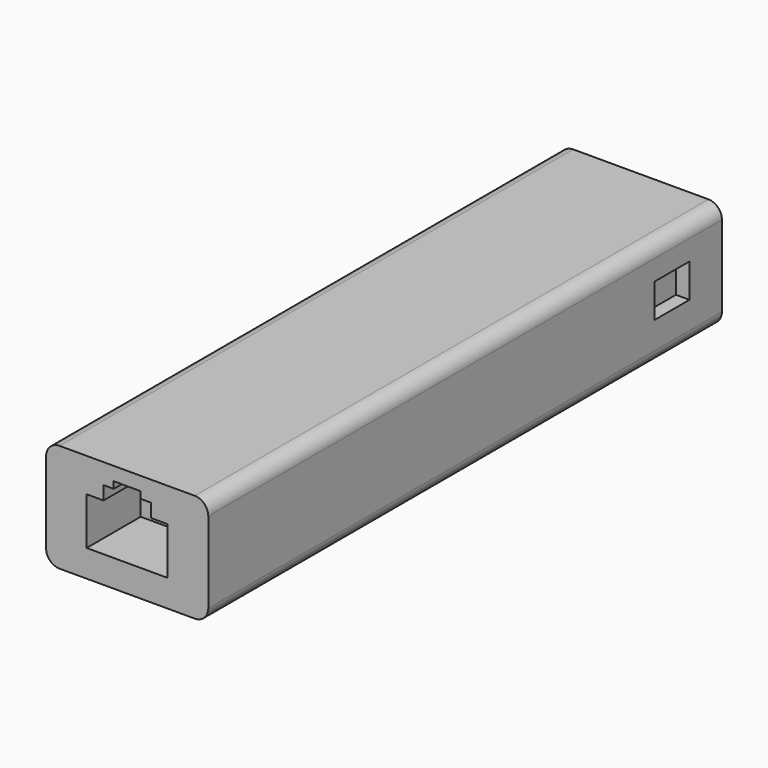
from build123d import *

# Parameters (mm, degrees)
F1_DEPTH = 95
F2_DEPTH = 10
F4_START = 10
F3_W     = 6.5
F3_H     = 5
F4_DEPTH = 2
F5_START = -10
F3_W_2   = 13
F5_DEPTH = 2


with BuildPart() as f1:
    # F0 (on Front) → F1 (new body)
    with BuildSketch(Plane.XZ):
        with BuildLine():
            Line((-10, -8), (10, -8))
            ThreePointArc((10, -8), (11.4142135624, -7.4142135624), (12, -6))
            Line((12, -6), (12, 6))
            ThreePointArc((12, 6), (11.4142135624, 7.4142135624), (10, 8))
            Line((10, 8), (-10, 8))
            ThreePointArc((-10, 8), (-11.4142135624, 7.4142135624), (-12, 6))
            Line((-12, 6), (-12, -6))
            ThreePointArc((-12, -6), (-11.4142135624, -7.4142135624), (-10, -8))
        make_face()
        Polygon((-2, 5), (-2, 6), (2, 6), (2, 5), (3.5, 5), (3.5, 3), (6, 3), (6, -4), (-6, -4), (-6, 3), (-3.5, 3), (-3.5, 5), align=None, mode=Mode.SUBTRACT)
        Polygon((2, 6), (-2, 6), (-2, 5), (-3.5, 5), (-3.5, 3), (-6, 3), (-6, -4), (6, -4), (6, 3), (3.5, 3), (3.5, 5), (2, 5), align=None)
    extrude(amount=-F1_DEPTH)

    # F0 (on Front) → F2 (cut)
    with BuildSketch(Plane.XZ):
        Polygon((2, 6), (-2, 6), (-2, 5), (-3.5, 5), (-3.5, 3), (-6, 3), (-6, -4), (6, -4), (6, 3), (3.5, 3), (3.5, 5), (2, 5), align=None)
    extrude(amount=-F2_DEPTH, mode=Mode.SUBTRACT)

    # F3 (on Right) → F4 (cut)
    with BuildSketch(Plane.YZ.offset(F4_START)):
        with Locations((85.75, 0.5)):
            Rectangle(F3_W, F3_H)
    extrude(amount=F4_DEPTH, mode=Mode.SUBTRACT)

    # F3 (on Right) → F5 (cut)
    with BuildSketch(Plane.YZ.offset(F5_START)):
        with Locations((74.5, -1.5)):
            Rectangle(F3_W_2, F3_H)
        with Locations((56, -1.5)):
            Rectangle(F3_W_2, F3_H)
        with Locations((37.5, -1.5)):
            Rectangle(F3_W_2, F3_H)
    extrude(amount=-F5_DEPTH, mode=Mode.SUBTRACT)


solid = f1.part
